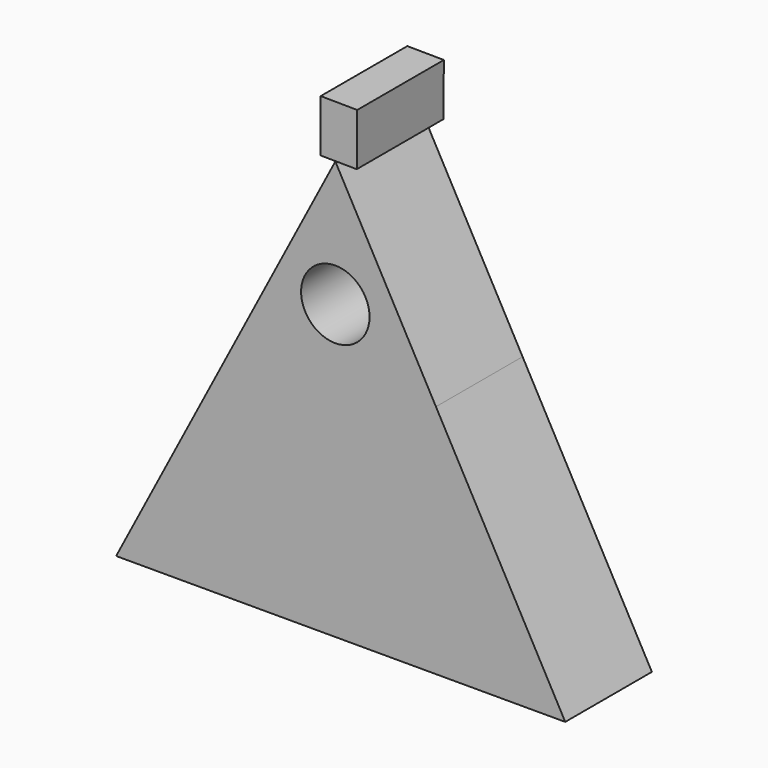
from build123d import *

# Parameters (mm, degrees)
F0_R     = 8.02592
F1_DEPTH = 25.4


with BuildPart() as f1:
    # F0 (on Front) → F1 (new body)
    with BuildSketch(Plane.XZ):
        Polygon((-22.657717, 2.984684), (-51.420819, -51.95025), (-40.766057, -51.95025), (53.935606, -51.95025), (23.603649, 3.279966), (0, 46.258882), align=None)
        with Locations((0, 16.743202)):
            Circle(F0_R, mode=Mode.SUBTRACT)
        Polygon((-3.43337, 58.637259), (-3.43337, 46.364454), (5.027406, 46.286831), (5.139993, 58.558603), align=None)
    extrude(amount=F1_DEPTH)


solid = f1.part
